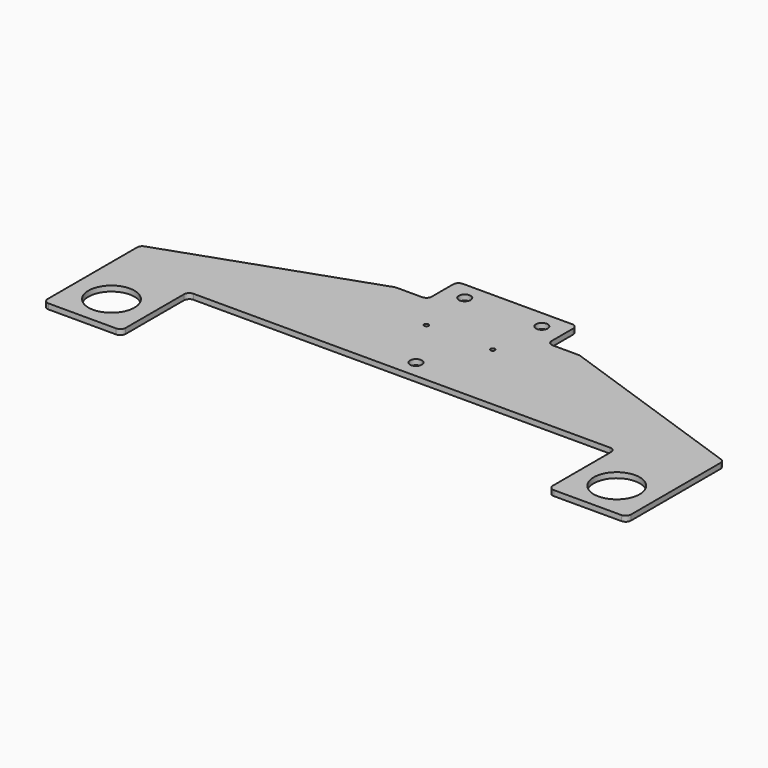
from build123d import *

# Parameters (mm, degrees)
F0_W     = 73
F0_H     = 78
F0_W_2   = 112
F0_H_2   = 35
F1_DEPTH = 5
F2_R     = 5
F3_R     = 5
F6_D     = 4.1
F8_D     = 43
F9_D     = 11


with BuildPart() as f1:
    # F0 (on Top) → F1 (new body)
    with BuildSketch(Plane.XY):
        Polygon((-56, 50), (-86, 50), (-272.5, -15), (-272.5, -50), (-199.5, -50), (199.5, -50), (272.5, -50), (272.5, -15), (86, 50), (56, 50), align=None)
        with Locations((-236, -89)):
            Rectangle(F0_W, F0_H)
        with Locations((236, -89)):
            Rectangle(F0_W, F0_H)
        with Locations((0, 67.5)):
            Rectangle(F0_W_2, F0_H_2)
    extrude(amount=F1_DEPTH)

    # F2
    f2_edges = [f1.edges().sort_by_distance(p)[0] for p in [
        (-272.5, -128, 2.5),
        (-199.5, -128, 2.5),
        (199.5, -128, 2.5),
        (272.5, -128, 2.5),
        (272.5, -15, 2.5),
        (-272.5, -15, 2.5),
        (-199.5, -50, 2.5),
        (199.5, -50, 2.5),
        (-56, 50, 2.5),
        (-56, 85, 2.5),
        (56, 85, 2.5),
        (56, 50, 2.5),
    ]]
    fillet(f2_edges, radius=F2_R)

    # F3
    f3_edges = [f1.edges().sort_by_distance(p)[0] for p in [
        (86, 50, 2.5),
        (-86, 50, 2.5),
    ]]
    fillet(f3_edges, radius=F3_R)

    # F6 (through all)
    with Locations(Plane(origin=(0, 0, 0), x_dir=(1, 0, 0), z_dir=(0, 0, -1))):
        with Locations((-31, -17.5), (31, -17.5)):
            Hole(F6_D / 2)

    # F8 (through all)
    with Locations(Plane(origin=(0, 0, 0), x_dir=(1, 0, 0), z_dir=(0, 0, -1))):
        with Locations((-236, 94), (236, 94)):
            Hole(F8_D / 2)

    # F9 (through all)
    with Locations(Plane(origin=(0, 0, 0), x_dir=(1, 0, 0), z_dir=(0, 0, -1))):
        with Locations((-36, -68.5), (36, -68.5), (0, 33.5)):
            Hole(F9_D / 2)


solid = f1.part
